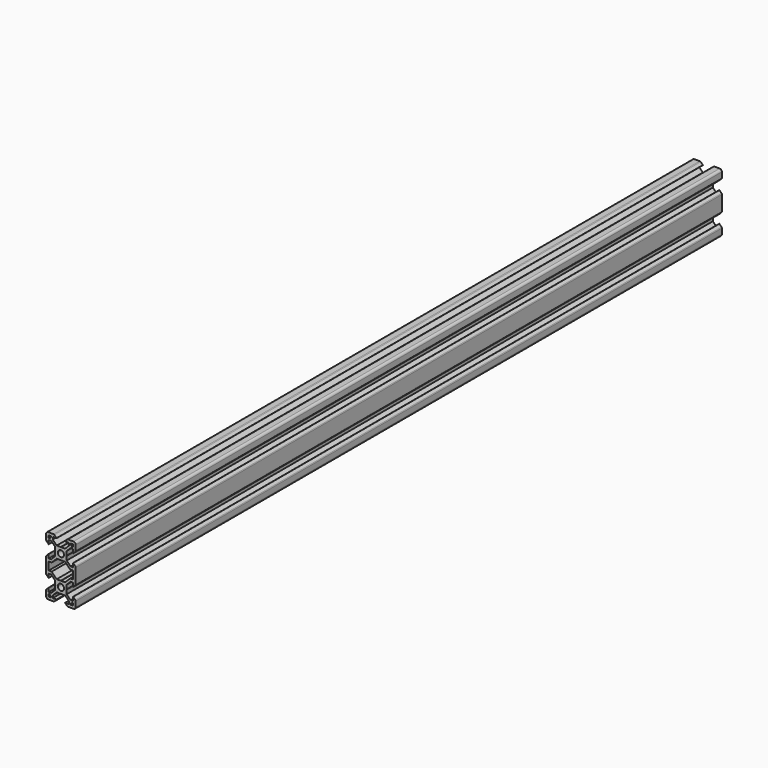
from build123d import *

# Parameters (mm, degrees)
F2_DEPTH = 545


with BuildPart() as f2:
    # F0 (on Front) → F2 (new body)
    with BuildSketch(Plane.XZ):
        with BuildLine():
            Line((5.0927712857, 0), (1.5, 0))
            ThreePointArc((1.5, 0), (0.4393398282, -0.4393398282), (0, -1.5))
            Line((0, -1.5), (0, -5.0927712857))
            ThreePointArc((0, -5.0927712857), (0.0601351693, -5.3950911973), (0.2313856429, -5.6513856429))
            Line((0.2313856429, -5.6513856429), (1.69, -7.11))
            Line((1.69, -7.11), (1.8, -7.11))
            Line((1.8, -7.11), (1.8, -4.5006601718))
            Line((1.8, -4.5006601718), (3.44, -4.5006601718))
            Line((3.44, -4.5006601718), (6.1000000155, -7.1606601718))
            Line((6.1000000155, -7.1606601718), (6.1000000155, -9.9))
            Line((6.1000000155, -9.9), (6.2000000155, -10))
            Line((6.2000000155, -10), (6.1000000155, -10.1))
            Line((6.1000000155, -10.1), (6.1000000155, -12.8393398605))
            Line((6.1000000155, -12.8393398605), (3.44, -15.4993398916))
            Line((3.44, -15.4993398916), (1.8, -15.4993398916))
            Line((1.8, -15.4993398916), (1.8, -12.8893398916))
            Line((1.8, -12.8893398916), (1.69, -12.8893398916))
            Line((1.69, -12.8893398916), (0.2313856429, -14.3479542487))
            ThreePointArc((0.2313856429, -14.3479542487), (0.0601351693, -14.6042486943), (0, -14.9065686059))
            Line((0, -14.9065686059), (0, -20))
            Line((0, -20), (0, -25.0934313941))
            ThreePointArc((0, -25.0934313941), (0.0601351693, -25.3957513057), (0.2313856429, -25.6520457513))
            Line((0.2313856429, -25.6520457513), (1.69, -27.1106601084))
            Line((1.69, -27.1106601084), (1.8, -27.1106601084))
            Line((1.8, -27.1106601084), (1.8, -24.5006601084))
            Line((1.8, -24.5006601084), (3.44, -24.5006601084))
            Line((3.44, -24.5006601084), (6.1000000155, -27.1606601395))
            Line((6.1000000155, -27.1606601395), (6.1000000155, -29.9))
            Line((6.1000000155, -29.9), (6.2000000155, -30))
            Line((6.2000000155, -30), (6.1000000155, -30.1))
            Line((6.1000000155, -30.1), (6.1000000155, -32.8393398282))
            Line((6.1000000155, -32.8393398282), (3.44, -35.4993398282))
            Line((3.44, -35.4993398282), (1.8, -35.4993398282))
            Line((1.8, -35.4993398282), (1.8, -32.89))
            Line((1.8, -32.89), (1.69, -32.89))
            Line((1.69, -32.89), (0.2313856429, -34.3486143571))
            ThreePointArc((0.2313856429, -34.3486143571), (0.0601351693, -34.6049088027), (0, -34.9072287143))
            Line((0, -34.9072287143), (0, -38.5))
            ThreePointArc((0, -38.5), (0.4393398282, -39.5606601718), (1.5, -40))
            Line((1.5, -40), (5.0927712857, -40))
            ThreePointArc((5.0927712857, -40), (5.3950911973, -39.9398648307), (5.6513856429, -39.7686143571))
            Line((5.6513856429, -39.7686143571), (7.11, -38.31))
            Line((7.11, -38.31), (7.11, -38.2))
            Line((7.11, -38.2), (4.5006601718, -38.2))
            Line((4.5006601718, -38.2), (4.5006601718, -36.56))
            Line((4.5006601718, -36.56), (7.1606601873, -33.9))
            Line((7.1606601873, -33.9), (9.9000000155, -33.9))
            Line((9.9000000155, -33.9), (10.0000000478, -33.8000000323))
            Line((10.0000000478, -33.8000000323), (10.1000000802, -33.9))
            Line((10.1000000802, -33.9), (12.8393399084, -33.9))
            Line((12.8393399084, -33.9), (15.4993399239, -36.56))
            Line((15.4993399239, -36.56), (15.4993399239, -38.2))
            Line((15.4993399239, -38.2), (12.8900000957, -38.2))
            Line((12.8900000957, -38.2), (12.8900000957, -38.31))
            Line((12.8900000957, -38.31), (14.3486144528, -39.7686143571))
            ThreePointArc((14.3486144528, -39.7686143571), (14.6049088984, -39.9398648307), (14.90722881, -40))
            Line((14.90722881, -40), (18.5000000957, -40))
            ThreePointArc((18.5000000957, -40), (19.5606602675, -39.5606601718), (20.0000000957, -38.5))
            Line((20.0000000957, -38.5), (20.0000000957, -34.9072287143))
            ThreePointArc((20.0000000957, -34.9072287143), (19.9398649264, -34.6049088027), (19.7686144528, -34.3486143571))
            Line((19.7686144528, -34.3486143571), (18.3100000957, -32.89))
            Line((18.3100000957, -32.89), (18.2000000957, -32.89))
            Line((18.2000000957, -32.89), (18.2000000957, -35.4993398282))
            Line((18.2000000957, -35.4993398282), (16.5600000957, -35.4993398282))
            Line((16.5600000957, -35.4993398282), (13.9000000802, -32.8393398282))
            Line((13.9000000802, -32.8393398282), (13.9000000802, -30.1))
            Line((13.9000000802, -30.1), (13.8000000802, -30))
            Line((13.8000000802, -30), (13.9000000802, -29.9))
            Line((13.9000000802, -29.9), (13.9000000802, -27.1606601395))
            Line((13.9000000802, -27.1606601395), (16.5600000957, -24.5006601084))
            Line((16.5600000957, -24.5006601084), (18.2000000957, -24.5006601084))
            Line((18.2000000957, -24.5006601084), (18.2000000957, -27.1106601084))
            Line((18.2000000957, -27.1106601084), (18.3100000957, -27.1106601084))
            Line((18.3100000957, -27.1106601084), (19.7686144528, -25.6520457513))
            ThreePointArc((19.7686144528, -25.6520457513), (19.9398649264, -25.3957513057), (20.0000000957, -25.0934313941))
            Line((20.0000000957, -25.0934313941), (20.0000000957, -20))
            Line((20.0000000957, -20), (20.0000000957, -14.9065686059))
            ThreePointArc((20.0000000957, -14.9065686059), (19.9398649264, -14.6042486943), (19.7686144528, -14.3479542487))
            Line((19.7686144528, -14.3479542487), (18.3100000957, -12.8893398916))
            Line((18.3100000957, -12.8893398916), (18.2000000957, -12.8893398916))
            Line((18.2000000957, -12.8893398916), (18.2000000957, -15.4993398916))
            Line((18.2000000957, -15.4993398916), (16.5600000957, -15.4993398916))
            Line((16.5600000957, -15.4993398916), (13.9000000802, -12.8393398605))
            Line((13.9000000802, -12.8393398605), (13.9000000802, -10.1))
            Line((13.9000000802, -10.1), (13.8000000802, -10))
            Line((13.8000000802, -10), (13.9000000802, -9.9))
            Line((13.9000000802, -9.9), (13.9000000802, -7.1606601718))
            Line((13.9000000802, -7.1606601718), (16.5600000957, -4.5006601718))
            Line((16.5600000957, -4.5006601718), (18.2000000957, -4.5006601718))
            Line((18.2000000957, -4.5006601718), (18.2000000957, -7.11))
            Line((18.2000000957, -7.11), (18.3100000957, -7.11))
            Line((18.3100000957, -7.11), (19.7686144528, -5.6513856429))
            ThreePointArc((19.7686144528, -5.6513856429), (19.9398649264, -5.3950911973), (20.0000000957, -5.0927712857))
            Line((20.0000000957, -5.0927712857), (20.0000000957, -1.5))
            ThreePointArc((20.0000000957, -1.5), (19.5606602675, -0.4393398282), (18.5000000957, 0))
            Line((18.5000000957, 0), (14.90722881, 0))
            ThreePointArc((14.90722881, 0), (14.6049088984, -0.0601351693), (14.3486144528, -0.2313856429))
            Line((14.3486144528, -0.2313856429), (12.8900000957, -1.69))
            Line((12.8900000957, -1.69), (12.8900000957, -1.8))
            Line((12.8900000957, -1.8), (15.4993399239, -1.8))
            Line((15.4993399239, -1.8), (15.4993399239, -3.44))
            Line((15.4993399239, -3.44), (12.8393399084, -6.1))
            Line((12.8393399084, -6.1), (10.1000000802, -6.1))
            Line((10.1000000802, -6.1), (10.0000000478, -6.1999999677))
            Line((10.0000000478, -6.1999999677), (9.9000000155, -6.1))
            Line((9.9000000155, -6.1), (7.1606601873, -6.1))
            Line((7.1606601873, -6.1), (4.5006601718, -3.44))
            Line((4.5006601718, -3.44), (4.5006601718, -1.8))
            Line((4.5006601718, -1.8), (7.11, -1.8))
            Line((7.11, -1.8), (7.11, -1.69))
            Line((7.11, -1.69), (5.6513856429, -0.2313856429))
            ThreePointArc((5.6513856429, -0.2313856429), (5.3950911973, -0.0601351693), (5.0927712857, 0))
        make_face()
        Polygon((1.8, -38.2), (1.8, -36.57), (2.34, -36.57), (3.43, -37.66), (3.43, -38.2), align=None, mode=Mode.SUBTRACT)
        with BuildLine():
            ThreePointArc((10.0000000478, -27.9), (11.4849242883, -28.5150757595), (12.1000000478, -30))
            ThreePointArc((12.1000000478, -30), (11.4849242883, -31.4849242405), (10.0000000478, -32.1))
            ThreePointArc((10.0000000478, -32.1), (8.5150758074, -31.4849242405), (7.9000000478, -30))
            ThreePointArc((7.9000000478, -30), (8.5150758074, -28.5150757595), (10.0000000478, -27.9))
        make_face(mode=Mode.SUBTRACT)
        Polygon((17.6600000957, -36.57), (18.2000000957, -36.57), (18.2000000957, -38.2), (16.5700000957, -38.2), (16.5700000957, -37.66), align=None, mode=Mode.SUBTRACT)
        Polygon((9.9000000478, -13.9000000323), (10.0000000478, -13.8000000323), (10.1000000478, -13.9000000323), (12.8393399084, -13.9000000323), (16.2400000478, -17.3006601916), (18.2000000478, -17.3006601916), (18.2000000478, -20), (18.2000000478, -22.6993398084), (16.2400000478, -22.6993398084), (12.8393399084, -26.0999999677), (10.1000000478, -26.0999999677), (10.0000000478, -26.1999999677), (9.9000000478, -26.0999999677), (7.1606601873, -26.0999999677), (3.7600000478, -22.6993398084), (1.8000000478, -22.6993398084), (1.8000000478, -20), (1.8000000478, -17.3006601916), (3.7600000478, -17.3006601916), (7.1606601873, -13.9000000323), align=None, mode=Mode.SUBTRACT)
        Polygon((1.8, -3.43), (1.8, -1.8), (3.43, -1.8), (3.43, -2.34), (2.34, -3.43), align=None, mode=Mode.SUBTRACT)
        with BuildLine():
            ThreePointArc((7.9000000478, -10), (8.5150758074, -8.5150757595), (10.0000000478, -7.9))
            ThreePointArc((10.0000000478, -7.9), (11.4849242883, -8.5150757595), (12.1000000478, -10))
            ThreePointArc((12.1000000478, -10), (11.4849242883, -11.4849242405), (10.0000000478, -12.1))
            ThreePointArc((10.0000000478, -12.1), (8.5150758074, -11.4849242405), (7.9000000478, -10))
        make_face(mode=Mode.SUBTRACT)
        Polygon((16.5700000957, -2.34), (16.5700000957, -1.8), (18.2000000957, -1.8), (18.2000000957, -3.43), (17.6600000957, -3.43), align=None, mode=Mode.SUBTRACT)
    extrude(amount=F2_DEPTH)


solid = f2.part
